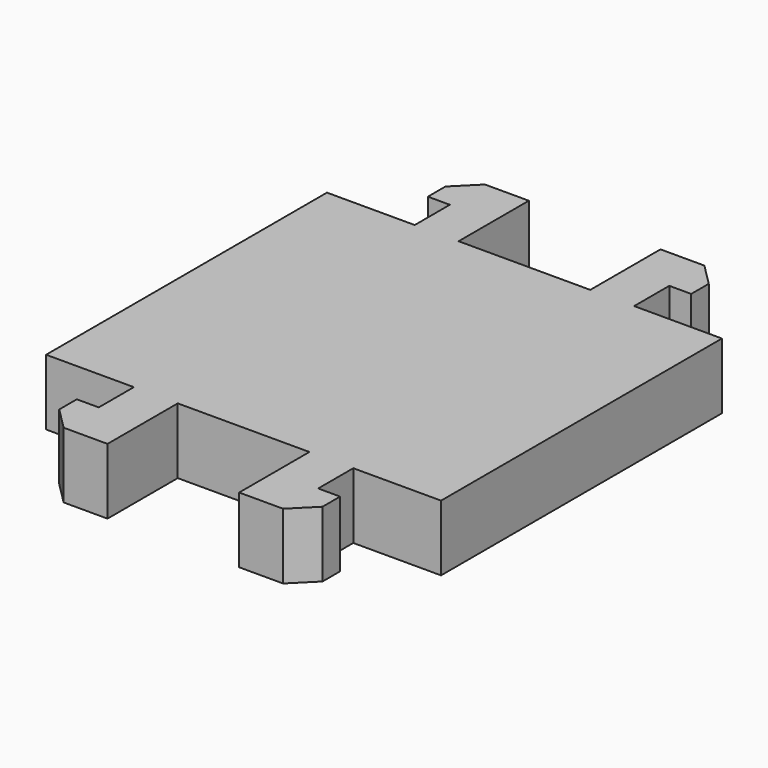
from build123d import *

# Parameters (mm, degrees)
F0_W     = 1
F0_H     = 1
F0_W_2   = 2
F0_H_2   = 8
F0_W_3   = 3
F0_W_4   = 0.5
F1_DEPTH = 1.5
F2_SIZE  = 0.5


with BuildPart() as f1:
    # F0 (on Top) → F1 (new body)
    with BuildSketch(Plane.XY):
        with Locations((-2, 4.5)):
            Rectangle(F0_W, F0_H)
        with Locations((2, 4.5)):
            Rectangle(F0_W, F0_H)
        with Locations((3.5, 0)):
            Rectangle(F0_W_2, F0_H_2)
        with Locations((2, 0)):
            Rectangle(F0_W, F0_H_2)
        Rectangle(F0_W_3, F0_H_2)
        with Locations((-2, 0)):
            Rectangle(F0_W, F0_H_2)
        with Locations((-3.5, 0)):
            Rectangle(F0_W_2, F0_H_2)
        with Locations((-2, -4.5)):
            Rectangle(F0_W, F0_H)
        with Locations((2, -4.5)):
            Rectangle(F0_W, F0_H)
        with Locations((-2.75, 5.5)):
            Rectangle(F0_W_4, F0_H)
        with Locations((-2, 5.5)):
            Rectangle(F0_W, F0_H)
        with Locations((2, 5.5)):
            Rectangle(F0_W, F0_H)
        with Locations((2.75, 5.5)):
            Rectangle(F0_W_4, F0_H)
        with Locations((2, -5.5)):
            Rectangle(F0_W, F0_H)
        with Locations((2.75, -5.5)):
            Rectangle(F0_W_4, F0_H)
        with Locations((-2.75, -5.5)):
            Rectangle(F0_W_4, F0_H)
        with Locations((-2, -5.5)):
            Rectangle(F0_W, F0_H)
    extrude(amount=F1_DEPTH)

    # F2
    f2_edges = [f1.edges().sort_by_distance(p)[0] for p in [
        (-3, 6, 0.75),
        (3, 6, 0.75),
        (3, -6, 0.75),
        (-3, -6, 0.75),
    ]]
    chamfer(f2_edges, length=F2_SIZE)


solid = f1.part
